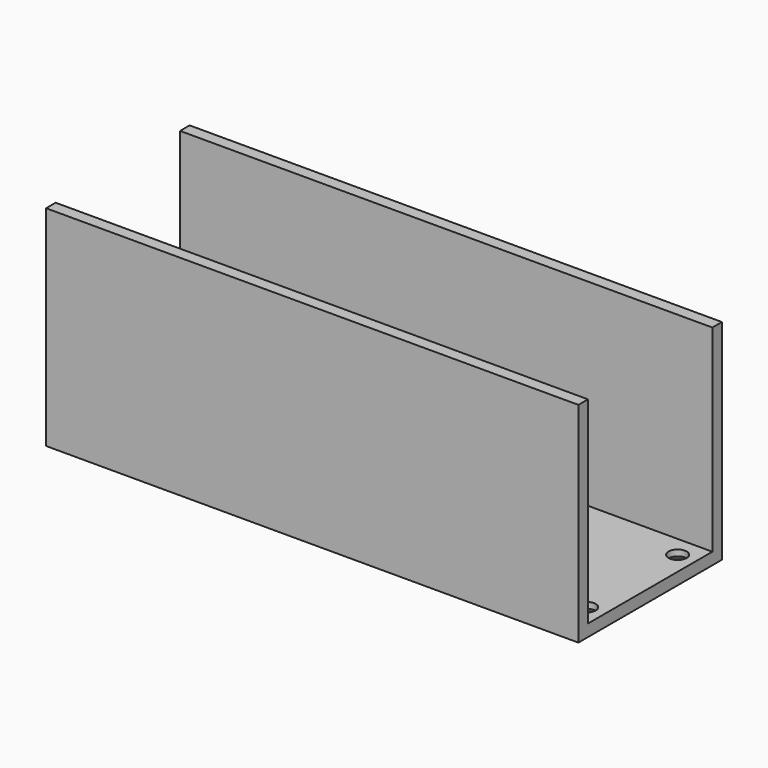
from build123d import *

# Parameters (mm, degrees)
SKETCH_W     = 89
SKETCH_H     = 30
PAD_DEPTH    = 2
SKETCH001_W  = 89
SKETCH001_H  = 2
PAD001_DEPTH = 33
SKETCH002_R  = 1.5
SKETCH002_W  = 31
SKETCH002_H  = 22
POCKET_DEPTH = 2
CHAMFER_SIZE = 1


with BuildPart() as part:
    # Sketch → Pad (new body)
    with BuildSketch(Plane.XY):
        Rectangle(SKETCH_W, SKETCH_H)
    extrude(amount=PAD_DEPTH)

    # Sketch001 (on Face6 of Pad) → Pad001 (join)
    with BuildSketch(Plane.XY.offset(2)):
        with Locations((0, 14)):
            Rectangle(SKETCH001_W, SKETCH001_H)
        with Locations((0, -14)):
            Rectangle(SKETCH001_W, SKETCH001_H)
    extrude(amount=PAD001_DEPTH)

    # Sketch002 (on Face8 of Pad001) → Pocket (cut)
    with BuildSketch(Plane.XY.offset(2)):
        with Locations((41.5, 9.5)):
            Circle(SKETCH002_R)
        with Locations((41.5, -9.5)):
            Circle(SKETCH002_R)
        with Locations((-41.5, -9.5)):
            Circle(SKETCH002_R)
        with Locations((-41.5, 9.5)):
            Circle(SKETCH002_R)
        Rectangle(SKETCH002_W, SKETCH002_H)
    extrude(amount=-POCKET_DEPTH, mode=Mode.SUBTRACT)

    # Chamfer
    chamfer_edges = [part.edges().sort_by_distance(p)[0] for p in [
        (-43, 9.5, 0),
        (-43, -9.5, 0),
        (40, -9.5, 0),
        (40, 9.5, 0),
    ]]
    chamfer(chamfer_edges, length=CHAMFER_SIZE)


solid = part.part
